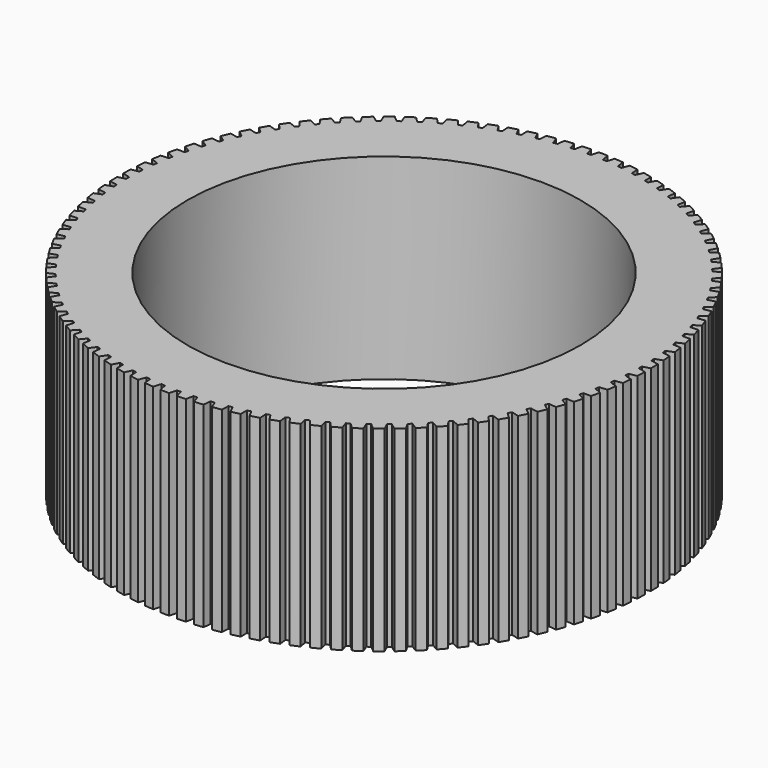
from build123d import *

# Parameters (mm, degrees)
F0_R     = 25.655
F1_DEPTH = 25.59


with BuildPart() as f1:
    # F0 (on Top) → F1 (new body)
    with BuildSketch(Plane.XY):
        with BuildLine():
            Line((-0.25, 33.463439), (-0.5, 34.441371))
            ThreePointArc((-0.5, 34.441371), (-1.081944, 34.428003), (-1.663578, 34.404804))
            Line((-1.663578, 34.404804), (-1.85168, 33.413104))
            ThreePointArc((-1.85168, 33.413104), (-2.101245, 33.398338), (-2.350693, 33.381709))
            Line((-2.350693, 33.381709), (-2.661605, 34.342013))
            ThreePointArc((-2.661605, 34.342013), (-3.241561, 34.292132), (-3.820591, 34.232457))
            Line((-3.820591, 34.232457), (-3.946052, 33.230903))
            ThreePointArc((-3.946052, 33.230903), (-4.194198, 33.200496), (-4.44211, 33.168236))
            Line((-4.44211, 33.168236), (-4.812706, 34.107124))
            ThreePointArc((-4.812706, 34.107124), (-5.388385, 34.020925), (-5.962526, 33.92501))
            Line((-5.962526, 33.92501), (-6.024851, 32.917555))
            ThreePointArc((-6.024851, 32.917555), (-6.270598, 32.871627), (-6.515995, 32.823864))
            Line((-6.515995, 32.823864), (-6.944813, 33.737629))
            ThreePointArc((-6.944813, 33.737629), (-7.513944, 33.615453), (-8.080929, 33.483677))
            Line((-8.080929, 33.483677), (-8.079873, 32.474296))
            Line((-8.079873, 32.474296), (-8.564165, 32.349951))
            Line((-8.564165, 32.349951), (-9.049512, 33.234987))
            ThreePointArc((-9.049512, 33.234987), (-9.609849, 33.077316), (-10.167441, 32.910199))
            Line((-10.167441, 32.910199), (-10.103007, 31.902876))
            ThreePointArc((-10.103007, 31.902876), (-10.34106, 31.82651), (-10.578535, 31.748367))
            Line((-10.578535, 31.748367), (-11.118497, 32.601182))
            ThreePointArc((-11.118497, 32.601182), (-11.667828, 32.408638), (-12.213826, 32.206839))
            Line((-12.213826, 32.206839), (-12.086269, 31.20555))
            ThreePointArc((-12.086269, 31.20555), (-12.319057, 31.114387), (-12.551158, 31.021487))
            Line((-12.551158, 31.021487), (-13.143602, 31.838714))
            ThreePointArc((-13.143602, 31.838714), (-13.679759, 31.612058), (-14.212009, 31.376374))
            Line((-14.212009, 31.376374), (-14.021832, 30.385069))
            ThreePointArc((-14.021832, 30.385069), (-14.248437, 30.27947), (-14.474246, 30.17218))
            Line((-14.474246, 30.17218), (-15.116836, 30.950594))
            ThreePointArc((-15.116836, 30.950594), (-15.637703, 30.69072), (-16.154104, 30.42208))
            Line((-16.154104, 30.42208), (-15.902058, 29.444673))
            ThreePointArc((-15.902058, 29.444673), (-16.121584, 29.325053), (-16.340211, 29.203797))
            Line((-16.340211, 29.203797), (-17.03041, 29.940326))
            ThreePointArc((-17.03041, 29.940326), (-17.533932, 29.648259), (-18.032445, 29.347725))
            Line((-18.032445, 29.347725), (-17.719525, 28.388073))
            ThreePointArc((-17.719525, 28.388073), (-17.931108, 28.254904), (-18.141689, 28.120159))
            Line((-18.141689, 28.120159), (-18.876773, 28.811898))
            ThreePointArc((-18.876773, 28.811898), (-19.360962, 28.48879), (-19.839621, 28.157547))
            Line((-19.839621, 28.157547), (-19.467062, 27.219437))
            ThreePointArc((-19.467062, 27.219437), (-19.669865, 27.073246), (-19.87157, 26.925544))
            Line((-19.87157, 26.925544), (-20.648638, 27.569762))
            ThreePointArc((-20.648638, 27.569762), (-21.111583, 27.216889), (-21.568499, 26.856244))
            Line((-21.568499, 26.856244), (-21.13777, 25.943379))
            ThreePointArc((-21.13777, 25.943379), (-21.330994, 25.784742), (-21.523027, 25.624667))
            Line((-21.523027, 25.624667), (-22.339013, 26.21882))
            ThreePointArc((-22.339013, 26.21882), (-22.778887, 25.837576), (-23.212256, 25.448952))
            Line((-23.212256, 25.448952), (-22.725058, 24.564934))
            ThreePointArc((-22.725058, 24.564934), (-22.907939, 24.394478), (-23.089542, 24.22266))
            Line((-23.089542, 24.22266), (-23.941225, 24.764405))
            ThreePointArc((-23.941225, 24.764405), (-24.356293, 24.356293), (-24.764405, 23.941225))
            Line((-24.764405, 23.941225), (-24.22266, 23.089542))
            ThreePointArc((-24.22266, 23.089542), (-24.394478, 22.907939), (-24.564934, 22.725058))
            Line((-24.564934, 22.725058), (-25.448952, 23.212256))
            ThreePointArc((-25.448952, 23.212256), (-25.837576, 22.778887), (-26.21882, 22.339013))
            Line((-26.21882, 22.339013), (-25.624667, 21.523027))
            Line((-25.624667, 21.523027), (-25.943379, 21.13777))
            Line((-25.943379, 21.13777), (-26.856244, 21.568499))
            Line((-26.856244, 21.568499), (-27.569762, 20.648638))
            Line((-27.569762, 20.648638), (-26.925544, 19.87157))
            Line((-26.925544, 19.87157), (-27.219437, 19.467062))
            Line((-27.219437, 19.467062), (-28.157547, 19.839621))
            ThreePointArc((-28.157547, 19.839621), (-28.48879, 19.360962), (-28.811898, 18.876773))
            Line((-28.811898, 18.876773), (-28.120159, 18.141689))
            ThreePointArc((-28.120159, 18.141689), (-28.254904, 17.931108), (-28.388073, 17.719525))
            Line((-28.388073, 17.719525), (-29.347725, 18.032445))
            ThreePointArc((-29.347725, 18.032445), (-29.648259, 17.533932), (-29.940326, 17.03041))
            Line((-29.940326, 17.03041), (-29.203797, 16.340211))
            ThreePointArc((-29.203797, 16.340211), (-29.325053, 16.121584), (-29.444673, 15.902058))
            Line((-29.444673, 15.902058), (-30.42208, 16.154104))
            ThreePointArc((-30.42208, 16.154104), (-30.69072, 15.637703), (-30.950594, 15.116836))
            Line((-30.950594, 15.116836), (-30.17218, 14.474246))
            Line((-30.17218, 14.474246), (-30.385069, 14.021832))
            Line((-30.385069, 14.021832), (-31.376374, 14.212009))
            ThreePointArc((-31.376374, 14.212009), (-31.612058, 13.679759), (-31.838714, 13.143602))
            Line((-31.838714, 13.143602), (-31.021487, 12.551158))
            ThreePointArc((-31.021487, 12.551158), (-31.114387, 12.319057), (-31.20555, 12.086269))
            Line((-31.20555, 12.086269), (-32.206839, 12.213826))
            ThreePointArc((-32.206839, 12.213826), (-32.408638, 11.667828), (-32.601182, 11.118497))
            Line((-32.601182, 11.118497), (-31.748367, 10.578535))
            ThreePointArc((-31.748367, 10.578535), (-31.82651, 10.34106), (-31.902876, 10.103007))
            Line((-31.902876, 10.103007), (-32.910199, 10.167441))
            ThreePointArc((-32.910199, 10.167441), (-33.077316, 9.609849), (-33.234987, 9.049512))
            Line((-33.234987, 9.049512), (-32.349951, 8.564165))
            ThreePointArc((-32.349951, 8.564165), (-32.413028, 8.322251), (-32.474296, 8.079873))
            Line((-32.474296, 8.079873), (-33.483677, 8.080929))
            ThreePointArc((-33.483677, 8.080929), (-33.615453, 7.513944), (-33.737629, 6.944813))
            Line((-33.737629, 6.944813), (-32.823864, 6.515995))
            ThreePointArc((-32.823864, 6.515995), (-32.871627, 6.270598), (-32.917555, 6.024851))
            Line((-32.917555, 6.024851), (-33.92501, 5.962526))
            ThreePointArc((-33.92501, 5.962526), (-34.020925, 5.388385), (-34.107124, 4.812706))
            Line((-34.107124, 4.812706), (-33.168236, 4.44211))
            ThreePointArc((-33.168236, 4.44211), (-33.200496, 4.194198), (-33.230903, 3.946052))
            Line((-33.230903, 3.946052), (-34.232457, 3.820591))
            ThreePointArc((-34.232457, 3.820591), (-34.292132, 3.241561), (-34.342013, 2.661605))
            Line((-34.342013, 2.661605), (-33.381709, 2.350693))
            ThreePointArc((-33.381709, 2.350693), (-33.398338, 2.101245), (-33.413104, 1.85168))
            Line((-33.413104, 1.85168), (-34.404804, 1.663578))
            ThreePointArc((-34.404804, 1.663578), (-34.428003, 1.081944), (-34.441371, 0.5))
            Line((-34.441371, 0.5), (-33.463439, 0.25))
            ThreePointArc((-33.463439, 0.25), (-33.464373, 0), (-33.463439, -0.25))
            Line((-33.463439, -0.25), (-34.441371, -0.5))
            ThreePointArc((-34.441371, -0.5), (-34.428003, -1.081944), (-34.404804, -1.663578))
            Line((-34.404804, -1.663578), (-33.413104, -1.85168))
            ThreePointArc((-33.413104, -1.85168), (-33.398338, -2.101245), (-33.381709, -2.350693))
            Line((-33.381709, -2.350693), (-34.342013, -2.661605))
            ThreePointArc((-34.342013, -2.661605), (-34.292132, -3.241561), (-34.232457, -3.820591))
            Line((-34.232457, -3.820591), (-33.230903, -3.946052))
            ThreePointArc((-33.230903, -3.946052), (-33.200496, -4.194198), (-33.168236, -4.44211))
            Line((-33.168236, -4.44211), (-34.107124, -4.812706))
            ThreePointArc((-34.107124, -4.812706), (-34.020925, -5.388385), (-33.92501, -5.962526))
            Line((-33.92501, -5.962526), (-32.917555, -6.024851))
            ThreePointArc((-32.917555, -6.024851), (-32.871627, -6.270598), (-32.823864, -6.515995))
            Line((-32.823864, -6.515995), (-33.737629, -6.944813))
            ThreePointArc((-33.737629, -6.944813), (-33.615453, -7.513944), (-33.483677, -8.080929))
            Line((-33.483677, -8.080929), (-32.474296, -8.079873))
            ThreePointArc((-32.474296, -8.079873), (-32.413028, -8.322251), (-32.349951, -8.564165))
            Line((-32.349951, -8.564165), (-33.234987, -9.049512))
            ThreePointArc((-33.234987, -9.049512), (-33.077316, -9.609849), (-32.910199, -10.167441))
            Line((-32.910199, -10.167441), (-31.902876, -10.103007))
            ThreePointArc((-31.902876, -10.103007), (-31.82651, -10.34106), (-31.748367, -10.578535))
            Line((-31.748367, -10.578535), (-32.601182, -11.118497))
            ThreePointArc((-32.601182, -11.118497), (-32.408638, -11.667828), (-32.206839, -12.213826))
            Line((-32.206839, -12.213826), (-31.20555, -12.086269))
            ThreePointArc((-31.20555, -12.086269), (-31.114387, -12.319057), (-31.021487, -12.551158))
            Line((-31.021487, -12.551158), (-31.838714, -13.143602))
            ThreePointArc((-31.838714, -13.143602), (-31.612058, -13.679759), (-31.376374, -14.212009))
            Line((-31.376374, -14.212009), (-30.385069, -14.021832))
            ThreePointArc((-30.385069, -14.021832), (-30.27947, -14.248437), (-30.17218, -14.474246))
            Line((-30.17218, -14.474246), (-30.950594, -15.116836))
            ThreePointArc((-30.950594, -15.116836), (-30.69072, -15.637703), (-30.42208, -16.154104))
            Line((-30.42208, -16.154104), (-29.444673, -15.902058))
            ThreePointArc((-29.444673, -15.902058), (-29.325053, -16.121584), (-29.203797, -16.340211))
            Line((-29.203797, -16.340211), (-29.940326, -17.03041))
            ThreePointArc((-29.940326, -17.03041), (-29.648259, -17.533932), (-29.347725, -18.032445))
            Line((-29.347725, -18.032445), (-28.388073, -17.719525))
            ThreePointArc((-28.388073, -17.719525), (-28.254904, -17.931108), (-28.120159, -18.141689))
            Line((-28.120159, -18.141689), (-28.811898, -18.876773))
            ThreePointArc((-28.811898, -18.876773), (-28.48879, -19.360962), (-28.157547, -19.839621))
            Line((-28.157547, -19.839621), (-27.219437, -19.467062))
            ThreePointArc((-27.219437, -19.467062), (-27.073246, -19.669865), (-26.925544, -19.87157))
            Line((-26.925544, -19.87157), (-27.569762, -20.648638))
            ThreePointArc((-27.569762, -20.648638), (-27.216889, -21.111583), (-26.856244, -21.568499))
            Line((-26.856244, -21.568499), (-25.943379, -21.13777))
            ThreePointArc((-25.943379, -21.13777), (-25.784742, -21.330994), (-25.624667, -21.523027))
            Line((-25.624667, -21.523027), (-26.21882, -22.339013))
            ThreePointArc((-26.21882, -22.339013), (-25.837576, -22.778887), (-25.448952, -23.212256))
            Line((-25.448952, -23.212256), (-24.564934, -22.725058))
            ThreePointArc((-24.564934, -22.725058), (-24.394478, -22.907939), (-24.22266, -23.089542))
            Line((-24.22266, -23.089542), (-24.764405, -23.941225))
            ThreePointArc((-24.764405, -23.941225), (-24.356293, -24.356293), (-23.941225, -24.764405))
            Line((-23.941225, -24.764405), (-23.089542, -24.22266))
            ThreePointArc((-23.089542, -24.22266), (-22.907939, -24.394478), (-22.725058, -24.564934))
            Line((-22.725058, -24.564934), (-23.212256, -25.448952))
            ThreePointArc((-23.212256, -25.448952), (-22.778887, -25.837576), (-22.339013, -26.21882))
            Line((-22.339013, -26.21882), (-21.523027, -25.624667))
            ThreePointArc((-21.523027, -25.624667), (-21.330994, -25.784742), (-21.13777, -25.943379))
            Line((-21.13777, -25.943379), (-21.568499, -26.856244))
            ThreePointArc((-21.568499, -26.856244), (-21.111583, -27.216889), (-20.648638, -27.569762))
            Line((-20.648638, -27.569762), (-19.87157, -26.925544))
            ThreePointArc((-19.87157, -26.925544), (-19.669865, -27.073246), (-19.467062, -27.219437))
            Line((-19.467062, -27.219437), (-19.839621, -28.157547))
            Line((-19.839621, -28.157547), (-18.876773, -28.811898))
            Line((-18.876773, -28.811898), (-18.141689, -28.120159))
            ThreePointArc((-18.141689, -28.120159), (-17.931108, -28.254904), (-17.719525, -28.388073))
            Line((-17.719525, -28.388073), (-18.032445, -29.347725))
            ThreePointArc((-18.032445, -29.347725), (-17.533932, -29.648259), (-17.03041, -29.940326))
            Line((-17.03041, -29.940326), (-16.340211, -29.203797))
            ThreePointArc((-16.340211, -29.203797), (-16.121584, -29.325053), (-15.902058, -29.444673))
            Line((-15.902058, -29.444673), (-16.154104, -30.42208))
            ThreePointArc((-16.154104, -30.42208), (-15.637703, -30.69072), (-15.116836, -30.950594))
            Line((-15.116836, -30.950594), (-14.474246, -30.17218))
            ThreePointArc((-14.474246, -30.17218), (-14.248437, -30.27947), (-14.021832, -30.385069))
            Line((-14.021832, -30.385069), (-14.212009, -31.376374))
            ThreePointArc((-14.212009, -31.376374), (-13.679759, -31.612058), (-13.143602, -31.838714))
            Line((-13.143602, -31.838714), (-12.551158, -31.021487))
            ThreePointArc((-12.551158, -31.021487), (-12.319057, -31.114387), (-12.086269, -31.20555))
            Line((-12.086269, -31.20555), (-12.213826, -32.206839))
            ThreePointArc((-12.213826, -32.206839), (-11.667828, -32.408638), (-11.118497, -32.601182))
            Line((-11.118497, -32.601182), (-10.578535, -31.748367))
            Line((-10.578535, -31.748367), (-10.103007, -31.902876))
            Line((-10.103007, -31.902876), (-10.167441, -32.910199))
            ThreePointArc((-10.167441, -32.910199), (-9.609849, -33.077316), (-9.049512, -33.234987))
            Line((-9.049512, -33.234987), (-8.564165, -32.349951))
            ThreePointArc((-8.564165, -32.349951), (-8.322251, -32.413028), (-8.079873, -32.474296))
            Line((-8.079873, -32.474296), (-8.080929, -33.483677))
            ThreePointArc((-8.080929, -33.483677), (-7.513944, -33.615453), (-6.944813, -33.737629))
            Line((-6.944813, -33.737629), (-6.515995, -32.823864))
            ThreePointArc((-6.515995, -32.823864), (-6.270598, -32.871627), (-6.024851, -32.917555))
            Line((-6.024851, -32.917555), (-5.962526, -33.92501))
            ThreePointArc((-5.962526, -33.92501), (-5.388385, -34.020925), (-4.812706, -34.107124))
            Line((-4.812706, -34.107124), (-4.44211, -33.168236))
            ThreePointArc((-4.44211, -33.168236), (-4.194198, -33.200496), (-3.946052, -33.230903))
            Line((-3.946052, -33.230903), (-3.820591, -34.232457))
            ThreePointArc((-3.820591, -34.232457), (-3.241561, -34.292132), (-2.661605, -34.342013))
            Line((-2.661605, -34.342013), (-2.350693, -33.381709))
            Line((-2.350693, -33.381709), (-1.85168, -33.413104))
            Line((-1.85168, -33.413104), (-1.663578, -34.404804))
            ThreePointArc((-1.663578, -34.404804), (-1.081944, -34.428003), (-0.5, -34.441371))
            Line((-0.5, -34.441371), (-0.25, -33.463439))
            ThreePointArc((-0.25, -33.463439), (0, -33.464373), (0.25, -33.463439))
            Line((0.25, -33.463439), (0.5, -34.441371))
            ThreePointArc((0.5, -34.441371), (1.081944, -34.428003), (1.663578, -34.404804))
            Line((1.663578, -34.404804), (1.85168, -33.413104))
            ThreePointArc((1.85168, -33.413104), (2.101245, -33.398338), (2.350693, -33.381709))
            Line((2.350693, -33.381709), (2.661605, -34.342013))
            ThreePointArc((2.661605, -34.342013), (3.241561, -34.292132), (3.820591, -34.232457))
            Line((3.820591, -34.232457), (3.946052, -33.230903))
            ThreePointArc((3.946052, -33.230903), (4.194198, -33.200496), (4.44211, -33.168236))
            Line((4.44211, -33.168236), (4.812706, -34.107124))
            ThreePointArc((4.812706, -34.107124), (5.388385, -34.020925), (5.962526, -33.92501))
            Line((5.962526, -33.92501), (6.024851, -32.917555))
            ThreePointArc((6.024851, -32.917555), (6.270598, -32.871627), (6.515995, -32.823864))
            Line((6.515995, -32.823864), (6.944813, -33.737629))
            ThreePointArc((6.944813, -33.737629), (7.513944, -33.615453), (8.080929, -33.483677))
            Line((8.080929, -33.483677), (8.079873, -32.474296))
            ThreePointArc((8.079873, -32.474296), (8.322251, -32.413028), (8.564165, -32.349951))
            Line((8.564165, -32.349951), (9.049512, -33.234987))
            ThreePointArc((9.049512, -33.234987), (9.609849, -33.077316), (10.167441, -32.910199))
            Line((10.167441, -32.910199), (10.103007, -31.902876))
            ThreePointArc((10.103007, -31.902876), (10.34106, -31.82651), (10.578535, -31.748367))
            Line((10.578535, -31.748367), (11.118497, -32.601182))
            ThreePointArc((11.118497, -32.601182), (11.667828, -32.408638), (12.213826, -32.206839))
            Line((12.213826, -32.206839), (12.086269, -31.20555))
            ThreePointArc((12.086269, -31.20555), (12.319057, -31.114387), (12.551158, -31.021487))
            Line((12.551158, -31.021487), (13.143602, -31.838714))
            ThreePointArc((13.143602, -31.838714), (13.679759, -31.612058), (14.212009, -31.376374))
            Line((14.212009, -31.376374), (14.021832, -30.385069))
            ThreePointArc((14.021832, -30.385069), (14.248437, -30.27947), (14.474246, -30.17218))
            Line((14.474246, -30.17218), (15.116836, -30.950594))
            ThreePointArc((15.116836, -30.950594), (15.637703, -30.69072), (16.154104, -30.42208))
            Line((16.154104, -30.42208), (15.902058, -29.444673))
            ThreePointArc((15.902058, -29.444673), (16.121584, -29.325053), (16.340211, -29.203797))
            Line((16.340211, -29.203797), (17.03041, -29.940326))
            ThreePointArc((17.03041, -29.940326), (17.533932, -29.648259), (18.032445, -29.347725))
            Line((18.032445, -29.347725), (17.719525, -28.388073))
            ThreePointArc((17.719525, -28.388073), (17.931108, -28.254904), (18.141689, -28.120159))
            Line((18.141689, -28.120159), (18.876773, -28.811898))
            ThreePointArc((18.876773, -28.811898), (19.360962, -28.48879), (19.839621, -28.157547))
            Line((19.839621, -28.157547), (19.467062, -27.219437))
            ThreePointArc((19.467062, -27.219437), (19.669865, -27.073246), (19.87157, -26.925544))
            Line((19.87157, -26.925544), (20.648638, -27.569762))
            ThreePointArc((20.648638, -27.569762), (21.111583, -27.216889), (21.568499, -26.856244))
            Line((21.568499, -26.856244), (21.13777, -25.943379))
            ThreePointArc((21.13777, -25.943379), (21.330994, -25.784742), (21.523027, -25.624667))
            Line((21.523027, -25.624667), (22.339013, -26.21882))
            ThreePointArc((22.339013, -26.21882), (22.778887, -25.837576), (23.212256, -25.448952))
            Line((23.212256, -25.448952), (22.725058, -24.564934))
            ThreePointArc((22.725058, -24.564934), (22.907939, -24.394478), (23.089542, -24.22266))
            Line((23.089542, -24.22266), (23.941225, -24.764405))
            ThreePointArc((23.941225, -24.764405), (24.356293, -24.356293), (24.764405, -23.941225))
            Line((24.764405, -23.941225), (24.22266, -23.089542))
            ThreePointArc((24.22266, -23.089542), (24.394478, -22.907939), (24.564934, -22.725058))
            Line((24.564934, -22.725058), (25.448952, -23.212256))
            ThreePointArc((25.448952, -23.212256), (25.837576, -22.778887), (26.21882, -22.339013))
            Line((26.21882, -22.339013), (25.624667, -21.523027))
            ThreePointArc((25.624667, -21.523027), (25.784742, -21.330994), (25.943379, -21.13777))
            Line((25.943379, -21.13777), (26.856244, -21.568499))
            ThreePointArc((26.856244, -21.568499), (27.216889, -21.111583), (27.569762, -20.648638))
            Line((27.569762, -20.648638), (26.925544, -19.87157))
            ThreePointArc((26.925544, -19.87157), (27.073246, -19.669865), (27.219437, -19.467062))
            Line((27.219437, -19.467062), (28.157547, -19.839621))
            ThreePointArc((28.157547, -19.839621), (28.48879, -19.360962), (28.811898, -18.876773))
            Line((28.811898, -18.876773), (28.120159, -18.141689))
            ThreePointArc((28.120159, -18.141689), (28.254904, -17.931108), (28.388073, -17.719525))
            Line((28.388073, -17.719525), (29.347725, -18.032445))
            ThreePointArc((29.347725, -18.032445), (29.648259, -17.533932), (29.940326, -17.03041))
            Line((29.940326, -17.03041), (29.203797, -16.340211))
            ThreePointArc((29.203797, -16.340211), (29.325053, -16.121584), (29.444673, -15.902058))
            Line((29.444673, -15.902058), (30.42208, -16.154104))
            ThreePointArc((30.42208, -16.154104), (30.69072, -15.637703), (30.950594, -15.116836))
            Line((30.950594, -15.116836), (30.17218, -14.474246))
            ThreePointArc((30.17218, -14.474246), (30.27947, -14.248437), (30.385069, -14.021832))
            Line((30.385069, -14.021832), (31.376374, -14.212009))
            ThreePointArc((31.376374, -14.212009), (31.612058, -13.679759), (31.838714, -13.143602))
            Line((31.838714, -13.143602), (31.021487, -12.551158))
            ThreePointArc((31.021487, -12.551158), (31.114387, -12.319057), (31.20555, -12.086269))
            Line((31.20555, -12.086269), (32.206839, -12.213826))
            ThreePointArc((32.206839, -12.213826), (32.408638, -11.667828), (32.601182, -11.118497))
            Line((32.601182, -11.118497), (31.748367, -10.578535))
            ThreePointArc((31.748367, -10.578535), (31.82651, -10.34106), (31.902876, -10.103007))
            Line((31.902876, -10.103007), (32.910199, -10.167441))
            ThreePointArc((32.910199, -10.167441), (33.077316, -9.609849), (33.234987, -9.049512))
            Line((33.234987, -9.049512), (32.349951, -8.564165))
            ThreePointArc((32.349951, -8.564165), (32.413028, -8.322251), (32.474296, -8.079873))
            Line((32.474296, -8.079873), (33.483677, -8.080929))
            ThreePointArc((33.483677, -8.080929), (33.615453, -7.513944), (33.737629, -6.944813))
            Line((33.737629, -6.944813), (32.823864, -6.515995))
            ThreePointArc((32.823864, -6.515995), (32.871627, -6.270598), (32.917555, -6.024851))
            Line((32.917555, -6.024851), (33.92501, -5.962526))
            ThreePointArc((33.92501, -5.962526), (34.020925, -5.388385), (34.107124, -4.812706))
            Line((34.107124, -4.812706), (33.168236, -4.44211))
            ThreePointArc((33.168236, -4.44211), (33.200496, -4.194198), (33.230903, -3.946052))
            Line((33.230903, -3.946052), (34.232457, -3.820591))
            ThreePointArc((34.232457, -3.820591), (34.292132, -3.241561), (34.342013, -2.661605))
            Line((34.342013, -2.661605), (33.381709, -2.350693))
            ThreePointArc((33.381709, -2.350693), (33.398338, -2.101245), (33.413104, -1.85168))
            Line((33.413104, -1.85168), (34.404804, -1.663578))
            ThreePointArc((34.404804, -1.663578), (34.428003, -1.081944), (34.441371, -0.5))
            Line((34.441371, -0.5), (33.463439, -0.25))
            ThreePointArc((33.463439, -0.25), (33.464373, 0), (33.463439, 0.25))
            Line((33.463439, 0.25), (34.441371, 0.5))
            ThreePointArc((34.441371, 0.5), (34.428003, 1.081944), (34.404804, 1.663578))
            Line((34.404804, 1.663578), (33.413104, 1.85168))
            ThreePointArc((33.413104, 1.85168), (33.398338, 2.101245), (33.381709, 2.350693))
            Line((33.381709, 2.350693), (34.342013, 2.661605))
            ThreePointArc((34.342013, 2.661605), (34.292132, 3.241561), (34.232457, 3.820591))
            Line((34.232457, 3.820591), (33.230903, 3.946052))
            ThreePointArc((33.230903, 3.946052), (33.200496, 4.194198), (33.168236, 4.44211))
            Line((33.168236, 4.44211), (34.107124, 4.812706))
            ThreePointArc((34.107124, 4.812706), (34.020925, 5.388385), (33.92501, 5.962526))
            Line((33.92501, 5.962526), (32.917555, 6.024851))
            ThreePointArc((32.917555, 6.024851), (32.871627, 6.270598), (32.823864, 6.515995))
            Line((32.823864, 6.515995), (33.737629, 6.944813))
            ThreePointArc((33.737629, 6.944813), (33.615453, 7.513944), (33.483677, 8.080929))
            Line((33.483677, 8.080929), (32.474296, 8.079873))
            ThreePointArc((32.474296, 8.079873), (32.413028, 8.322251), (32.349951, 8.564165))
            Line((32.349951, 8.564165), (33.234987, 9.049512))
            ThreePointArc((33.234987, 9.049512), (33.077316, 9.609849), (32.910199, 10.167441))
            Line((32.910199, 10.167441), (31.902876, 10.103007))
            ThreePointArc((31.902876, 10.103007), (31.82651, 10.34106), (31.748367, 10.578535))
            Line((31.748367, 10.578535), (32.601182, 11.118497))
            ThreePointArc((32.601182, 11.118497), (32.408638, 11.667828), (32.206839, 12.213826))
            Line((32.206839, 12.213826), (31.20555, 12.086269))
            ThreePointArc((31.20555, 12.086269), (31.114387, 12.319057), (31.021487, 12.551158))
            Line((31.021487, 12.551158), (31.838714, 13.143602))
            ThreePointArc((31.838714, 13.143602), (31.612058, 13.679759), (31.376374, 14.212009))
            Line((31.376374, 14.212009), (30.385069, 14.021832))
            ThreePointArc((30.385069, 14.021832), (30.27947, 14.248437), (30.17218, 14.474246))
            Line((30.17218, 14.474246), (30.950594, 15.116836))
            ThreePointArc((30.950594, 15.116836), (30.69072, 15.637703), (30.42208, 16.154104))
            Line((30.42208, 16.154104), (29.444673, 15.902058))
            Line((29.444673, 15.902058), (29.203797, 16.340211))
            Line((29.203797, 16.340211), (29.940326, 17.03041))
            ThreePointArc((29.940326, 17.03041), (29.648259, 17.533932), (29.347725, 18.032445))
            Line((29.347725, 18.032445), (28.388073, 17.719525))
            ThreePointArc((28.388073, 17.719525), (28.254904, 17.931108), (28.120159, 18.141689))
            Line((28.120159, 18.141689), (28.811898, 18.876773))
            ThreePointArc((28.811898, 18.876773), (28.48879, 19.360962), (28.157547, 19.839621))
            Line((28.157547, 19.839621), (27.219437, 19.467062))
            ThreePointArc((27.219437, 19.467062), (27.073246, 19.669865), (26.925544, 19.87157))
            Line((26.925544, 19.87157), (27.569762, 20.648638))
            ThreePointArc((27.569762, 20.648638), (27.216889, 21.111583), (26.856244, 21.568499))
            Line((26.856244, 21.568499), (25.943379, 21.13777))
            ThreePointArc((25.943379, 21.13777), (25.784742, 21.330994), (25.624667, 21.523027))
            Line((25.624667, 21.523027), (26.21882, 22.339013))
            ThreePointArc((26.21882, 22.339013), (25.837576, 22.778887), (25.448952, 23.212256))
            Line((25.448952, 23.212256), (24.564934, 22.725058))
            ThreePointArc((24.564934, 22.725058), (24.394478, 22.907939), (24.22266, 23.089542))
            Line((24.22266, 23.089542), (24.764405, 23.941225))
            ThreePointArc((24.764405, 23.941225), (24.356293, 24.356293), (23.941225, 24.764405))
            Line((23.941225, 24.764405), (23.089542, 24.22266))
            ThreePointArc((23.089542, 24.22266), (22.907939, 24.394478), (22.725058, 24.564934))
            Line((22.725058, 24.564934), (23.212256, 25.448952))
            ThreePointArc((23.212256, 25.448952), (22.778887, 25.837576), (22.339013, 26.21882))
            Line((22.339013, 26.21882), (21.523027, 25.624667))
            ThreePointArc((21.523027, 25.624667), (21.330994, 25.784742), (21.13777, 25.943379))
            Line((21.13777, 25.943379), (21.568499, 26.856244))
            ThreePointArc((21.568499, 26.856244), (21.111583, 27.216889), (20.648638, 27.569762))
            Line((20.648638, 27.569762), (19.87157, 26.925544))
            Line((19.87157, 26.925544), (19.467062, 27.219437))
            Line((19.467062, 27.219437), (19.839621, 28.157547))
            ThreePointArc((19.839621, 28.157547), (19.360962, 28.48879), (18.876773, 28.811898))
            Line((18.876773, 28.811898), (18.141689, 28.120159))
            Line((18.141689, 28.120159), (17.719525, 28.388073))
            Line((17.719525, 28.388073), (18.032445, 29.347725))
            ThreePointArc((18.032445, 29.347725), (17.533932, 29.648259), (17.03041, 29.940326))
            Line((17.03041, 29.940326), (16.340211, 29.203797))
            ThreePointArc((16.340211, 29.203797), (16.121584, 29.325053), (15.902058, 29.444673))
            Line((15.902058, 29.444673), (16.154104, 30.42208))
            ThreePointArc((16.154104, 30.42208), (15.637703, 30.69072), (15.116836, 30.950594))
            Line((15.116836, 30.950594), (14.474246, 30.17218))
            ThreePointArc((14.474246, 30.17218), (14.248437, 30.27947), (14.021832, 30.385069))
            Line((14.021832, 30.385069), (14.212009, 31.376374))
            ThreePointArc((14.212009, 31.376374), (13.679759, 31.612058), (13.143602, 31.838714))
            Line((13.143602, 31.838714), (12.551158, 31.021487))
            Line((12.551158, 31.021487), (12.086269, 31.20555))
            Line((12.086269, 31.20555), (12.213826, 32.206839))
            ThreePointArc((12.213826, 32.206839), (11.667828, 32.408638), (11.118497, 32.601182))
            Line((11.118497, 32.601182), (10.578535, 31.748367))
            ThreePointArc((10.578535, 31.748367), (10.34106, 31.82651), (10.103007, 31.902876))
            Line((10.103007, 31.902876), (10.167441, 32.910199))
            ThreePointArc((10.167441, 32.910199), (9.609849, 33.077316), (9.049512, 33.234987))
            Line((9.049512, 33.234987), (8.564165, 32.349951))
            ThreePointArc((8.564165, 32.349951), (8.322251, 32.413028), (8.079873, 32.474296))
            Line((8.079873, 32.474296), (8.080929, 33.483677))
            ThreePointArc((8.080929, 33.483677), (7.513944, 33.615453), (6.944813, 33.737629))
            Line((6.944813, 33.737629), (6.515995, 32.823864))
            ThreePointArc((6.515995, 32.823864), (6.270598, 32.871627), (6.024851, 32.917555))
            Line((6.024851, 32.917555), (5.962526, 33.92501))
            ThreePointArc((5.962526, 33.92501), (5.388385, 34.020925), (4.812706, 34.107124))
            Line((4.812706, 34.107124), (4.44211, 33.168236))
            ThreePointArc((4.44211, 33.168236), (4.194198, 33.200496), (3.946052, 33.230903))
            Line((3.946052, 33.230903), (3.820591, 34.232457))
            ThreePointArc((3.820591, 34.232457), (3.241561, 34.292132), (2.661605, 34.342013))
            Line((2.661605, 34.342013), (2.350693, 33.381709))
            ThreePointArc((2.350693, 33.381709), (2.101245, 33.398338), (1.85168, 33.413104))
            Line((1.85168, 33.413104), (1.663578, 34.404804))
            ThreePointArc((1.663578, 34.404804), (1.081944, 34.428003), (0.5, 34.441371))
            Line((0.5, 34.441371), (0.25, 33.463439))
            ThreePointArc((0.25, 33.463439), (0, 33.464373), (-0.25, 33.463439))
        make_face()
        Circle(F0_R, mode=Mode.SUBTRACT)
    extrude(amount=F1_DEPTH)


solid = f1.part
